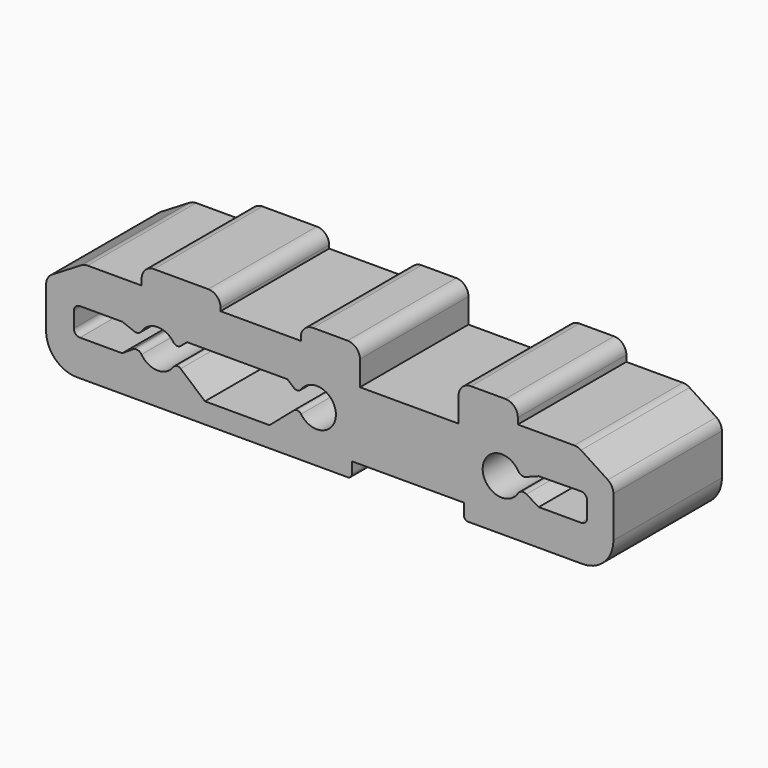
from build123d import *

# Parameters (mm, degrees)
F1_DEPTH = 22


with BuildPart() as f1:
    # F0 (on Front) → F1 (new body)
    with BuildSketch(Plane.XZ):
        with BuildLine():
            Line((-35.251705, 9.734763), (-44.051705, 9.734763))
            ThreePointArc((-44.051705, 9.734763), (-45.465918, 9.148977), (-46.051705, 7.734763))
            Line((-46.051705, 7.734763), (-46.051705, 6.734763))
            Line((-46.051705, 6.734763), (-54.816158, 6.734763))
            ThreePointArc((-54.816158, 6.734763), (-55.354677, 6.660898), (-55.853418, 6.444761))
            Line((-55.853418, 6.444761), (-60.588965, 3.572245))
            ThreePointArc((-60.588965, 3.572245), (-61.294479, 2.843441), (-61.551705, 1.862248))
            Line((-61.551705, 1.862248), (-61.551705, -4.765237))
            ThreePointArc((-61.551705, -4.765237), (-60.087239, -8.300771), (-56.551705, -9.765237))
            Line((-56.551705, -9.765237), (-12.651705, -9.765237))
            ThreePointArc((-12.651705, -9.765237), (-12.15673, -9.560212), (-11.951705, -9.065237))
            Line((-11.951705, -9.065237), (-11.951705, -7.265237))
            Line((-11.951705, -7.265237), (6.198295, -7.265237))
            Line((6.198295, -7.265237), (6.198295, -9.065237))
            ThreePointArc((6.198295, -9.065237), (6.40332, -9.560212), (6.898295, -9.765237))
            Line((6.898295, -9.765237), (25.448295, -9.765237))
            ThreePointArc((25.448295, -9.765237), (28.983829, -8.300771), (30.448295, -4.765237))
            Line((30.448295, -4.765237), (30.448295, 1.90505))
            ThreePointArc((30.448295, 1.90505), (30.206924, 2.857533), (29.541071, 3.580114))
            Line((29.541071, 3.580114), (25.203537, 6.409828))
            ThreePointArc((25.203537, 6.409828), (24.680792, 6.651809), (24.110761, 6.734763))
            Line((24.110761, 6.734763), (14.948295, 6.734763))
            Line((14.948295, 6.734763), (14.948295, 7.734763))
            ThreePointArc((14.948295, 7.734763), (14.362509, 9.148977), (12.948295, 9.734763))
            Line((12.948295, 9.734763), (7.348295, 9.734763))
            ThreePointArc((7.348295, 9.734763), (5.934082, 9.148977), (5.348295, 7.734763))
            Line((5.348295, 7.734763), (5.348295, 3.734763))
            Line((5.348295, 3.734763), (-10.651705, 3.734763))
            Line((-10.651705, 3.734763), (-10.651705, 7.734763))
            ThreePointArc((-10.651705, 7.734763), (-11.237491, 9.148977), (-12.651705, 9.734763))
            Line((-12.651705, 9.734763), (-18.251705, 9.734763))
            ThreePointArc((-18.251705, 9.734763), (-19.665918, 9.148977), (-20.251705, 7.734763))
            Line((-20.251705, 7.734763), (-20.251705, 7.234763))
            Line((-20.251705, 7.234763), (-33.251705, 7.234763))
            Line((-33.251705, 7.234763), (-33.251705, 7.734763))
            ThreePointArc((-33.251705, 7.734763), (-33.837491, 9.148977), (-35.251705, 9.734763))
        make_face()
        with BuildLine():
            ThreePointArc((-40.90523, -3.219393), (-43.514426, -4.55086), (-46.067619, -3.114923))
            ThreePointArc((-46.067619, -3.114923), (-46.699482, -2.674239), (-47.457145, -2.813521))
            Line((-47.457145, -2.813521), (-49.204705, -3.951495))
            Line((-49.204705, -3.951495), (-56.051705, -3.951495))
            ThreePointArc((-56.051705, -3.951495), (-56.758812, -3.658601), (-57.051705, -2.951495))
            Line((-57.051705, -2.951495), (-57.051705, -0.451495))
            ThreePointArc((-57.051705, -0.451495), (-56.758812, 0.255612), (-56.051705, 0.548505))
            Line((-56.051705, 0.548505), (-49.204805, 0.548505))
            Line((-49.204805, 0.548505), (-47.266027, -0.186586))
            ThreePointArc((-47.266027, -0.186586), (-46.595978, -0.200457), (-46.067649, 0.211886))
            ThreePointArc((-46.067649, 0.211886), (-43.514428, 1.647871), (-40.9052, 0.316361))
            ThreePointArc((-40.9052, 0.316361), (-40.349539, -0.020953), (-39.726865, 0.165639))
            Line((-39.726865, 0.165639), (-38.698705, 1.048505))
            Line((-38.698705, 1.048505), (-22.404805, 1.048505))
            Line((-22.404805, 1.048505), (-21.376582, 0.165586))
            ThreePointArc((-21.376582, 0.165586), (-20.753901, -0.021006), (-20.198239, 0.316318))
            ThreePointArc((-20.198239, 0.316318), (-14.551705, -1.451521), (-20.198269, -3.219265))
            ThreePointArc((-20.198269, -3.219265), (-20.753923, -2.881932), (-21.376606, -3.06851))
            Line((-21.376606, -3.06851), (-25.316505, -6.451495))
            Line((-25.316505, -6.451495), (-35.787205, -6.451495))
            Line((-35.787205, -6.451495), (-39.726916, -3.068671))
            ThreePointArc((-39.726916, -3.068671), (-40.349578, -2.88209), (-40.90523, -3.219393))
        make_face(mode=Mode.SUBTRACT)
        with BuildLine():
            ThreePointArc((14.982149, -3.08637), (9.248661, -1.403859), (15.031143, 0.101673))
            ThreePointArc((15.031143, 0.101673), (15.561388, -0.339456), (16.251102, -0.332352))
            Line((16.251102, -0.332352), (18.345387, 0.4617))
            Line((18.345387, 0.4617), (25.181225, 0.537321))
            ThreePointArc((25.181225, 0.537321), (25.895472, 0.248389), (26.192287, -0.462618))
            Line((26.192287, -0.462618), (26.192287, -2.951495))
            ThreePointArc((26.192287, -2.951495), (25.899394, -3.658601), (25.192287, -3.951495))
            Line((25.192287, -3.951495), (18.345387, -3.951495))
            Line((18.345387, -3.951495), (16.344939, -2.755456))
            ThreePointArc((16.344939, -2.755456), (15.595815, -2.641987), (14.982149, -3.08637))
        make_face(mode=Mode.SUBTRACT)
    extrude(amount=F1_DEPTH)


solid = f1.part
